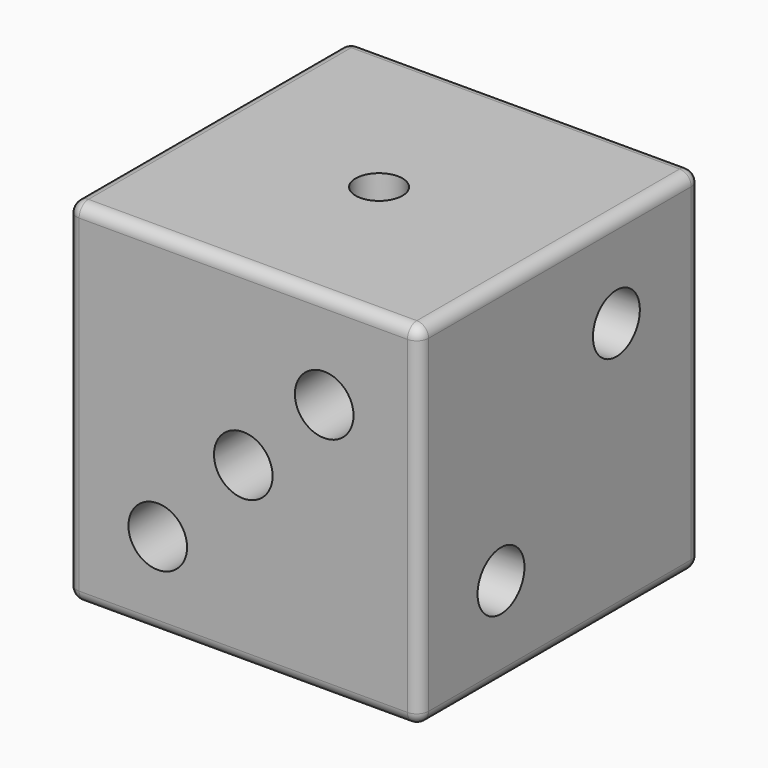
from build123d import *

# Parameters (mm, degrees)
F0_W      = 76.2
F0_H      = 76.2
F1_DEPTH  = 76.2
F2_R      = 2.54
F3_R      = 5.08
F4_DEPTH  = 10.16
F5_R      = 6.35
F6_DEPTH  = 12.7
F6_FACE_R = 6.35
F7_DEPTH  = 2540
F8_R      = 6.35
F9_DEPTH  = 12.7
F10_R     = 6.35
F11_DEPTH = 10.16
F12_R     = 6.35
F13_DEPTH = 10.16
F14_R     = 6.35
F15_DEPTH = 10.16


with BuildPart() as f1:
    # F0 (on Front) → F1 (new body)
    with BuildSketch(Plane.XZ):
        Rectangle(F0_W, F0_H)
    extrude(amount=F1_DEPTH)

    # F2
    f2_edges = [f1.edges().sort_by_distance(p)[0] for p in [
        (0, 0, 38.1),
        (-38.1, -38.1, 38.1),
        (-38.1, 0, 0),
        (-38.1, -76.2, 0),
        (0, -76.2, 38.1),
        (0, -76.2, -38.1),
        (38.1, -76.2, 0),
        (-38.1, -38.1, -38.1),
        (38.1, -38.1, -38.1),
        (0, 0, -38.1),
        (38.1, 0, 0),
        (38.1, -38.1, 38.1),
    ]]
    fillet(f2_edges, radius=F2_R)

    # F3 (on face) → F4 (cut)
    with BuildSketch(Plane.XY.offset(38.1)):
        with Locations((0, -39.432134)):
            Circle(F3_R)
    extrude(amount=-F4_DEPTH, mode=Mode.SUBTRACT)

    # F5 (on face) → F6 (cut)
    with BuildSketch(Plane.XZ.offset(76.2)):
        with Locations((-18.525468, -19.626983)):
            Circle(F5_R)
        with Locations((17.524092, 17.22368)):
            Circle(F5_R)
        Circle(F5_R)
    extrude(amount=-F6_DEPTH, mode=Mode.SUBTRACT)

    # F6_face (on face) → F7 (cut)
    with BuildSketch(Plane.XZ.offset(63.5)):
        Circle(F6_FACE_R)
    extrude(amount=-F7_DEPTH, mode=Mode.SUBTRACT)

    # F8 (on face) → F9 (cut)
    with BuildSketch(Plane(origin=(0, 0, 0), x_dir=(-1, 0, 0), z_dir=(0, 1, 0))):
        with Locations((-18.926021, 17.423956)):
            Circle(F8_R)
        with Locations((18.307427, 17.491662)):
            Circle(F8_R)
        with Locations((-18.594825, -16.969131)):
            Circle(F8_R)
        with Locations((19.088846, -16.791513)):
            Circle(F8_R)
    extrude(amount=-F9_DEPTH, mode=Mode.SUBTRACT)

    # F10 (on face) → F11 (cut)
    with BuildSketch(Plane(origin=(0, 0, -38.1), x_dir=(1, 0, 0), z_dir=(0, 0, -1))):
        with Locations((-19.3006, 59.993013)):
            Circle(F10_R)
        with Locations((-18.899389, 41.696207)):
            Circle(F10_R)
        with Locations((16.964177, 60.541245)):
            Circle(F10_R)
        with Locations((17.018, 42.472795)):
            Circle(F10_R)
        with Locations((17.969948, 23.708652)):
            Circle(F10_R)
        with Locations((-18.581695, 22.98594)):
            Circle(F10_R)
    extrude(amount=-F11_DEPTH, mode=Mode.SUBTRACT)

    # F12 (on face) → F13 (cut)
    with BuildSketch(Plane.YZ.offset(38.1)):
        with Locations((-22.802937, 17.738998)):
            Circle(F12_R)
        with Locations((-54.048792, -18.630479)):
            Circle(F12_R)
    extrude(amount=-F13_DEPTH, mode=Mode.SUBTRACT)

    # F14 (on face) → F15 (cut)
    with BuildSketch(Plane(origin=(-38.1, 0, 0), x_dir=(0, -1, 0), z_dir=(-1, 0, 0))):
        with Locations((21.129049, 20.828636)):
            Circle(F14_R)
        with Locations((50.461128, 20.828636)):
            Circle(F14_R)
        with Locations((21.129049, -15.14654)):
            Circle(F14_R)
        with Locations((50.461128, -15.14654)):
            Circle(F14_R)
        with Locations((35.348602, 0)):
            Circle(F14_R)
    extrude(amount=-F15_DEPTH, mode=Mode.SUBTRACT)


solid = f1.part
